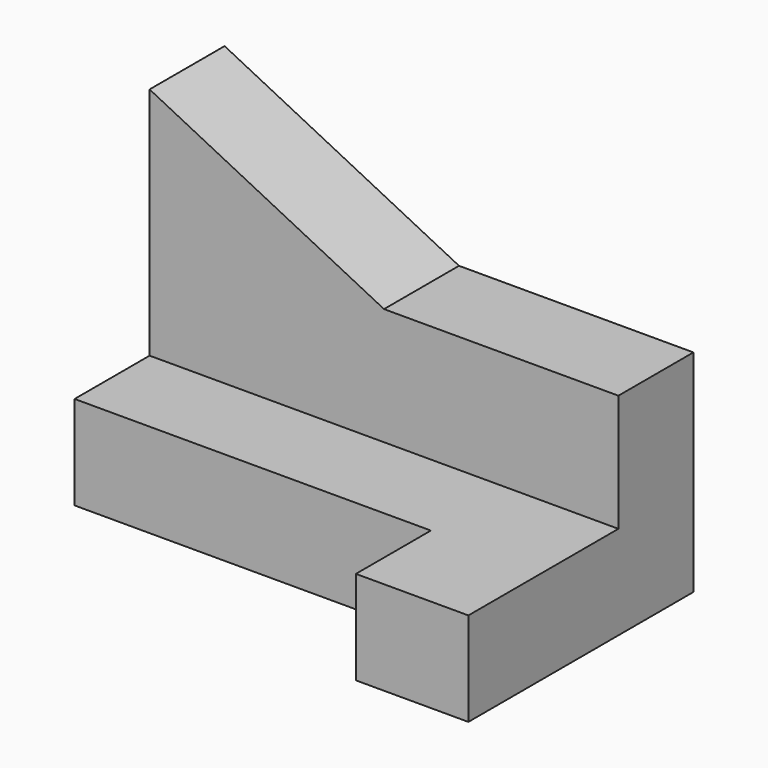
from build123d import *

# Parameters (mm, degrees)
F0_W     = 50
F0_H     = 35
F1_DEPTH = 30
F2_W     = 20
F2_H     = 25
F3_DEPTH = 50.001
F4_W     = 38
F4_H     = 10
F5_DEPTH = 10.001
F7_DEPTH = 10.001


with BuildPart() as f1:
    # F0 (on Front) → F1 (new body)
    with BuildSketch(Plane.XZ):
        with Locations((25, 17.5)):
            Rectangle(F0_W, F0_H)
    extrude(amount=F1_DEPTH)

    # F2 (on face) → F3 (cut, through all)
    with BuildSketch(Plane.YZ.offset(50)):
        with Locations((-20, 22.5)):
            Rectangle(F2_W, F2_H)
    extrude(amount=-F3_DEPTH, mode=Mode.SUBTRACT)

    # F4 (on face) → F5 (cut, through all)
    with BuildSketch(Plane.XY.offset(10)):
        with Locations((19, -25)):
            Rectangle(F4_W, F4_H)
    extrude(amount=-F5_DEPTH, mode=Mode.SUBTRACT)

    # F6 (on face) → F7 (cut, through all)
    with BuildSketch(Plane.XZ.offset(10)):
        Polygon((50, 35), (0, 35), (25, 22.5), (50, 22.5), align=None)
    extrude(amount=-F7_DEPTH, mode=Mode.SUBTRACT)


solid = f1.part
